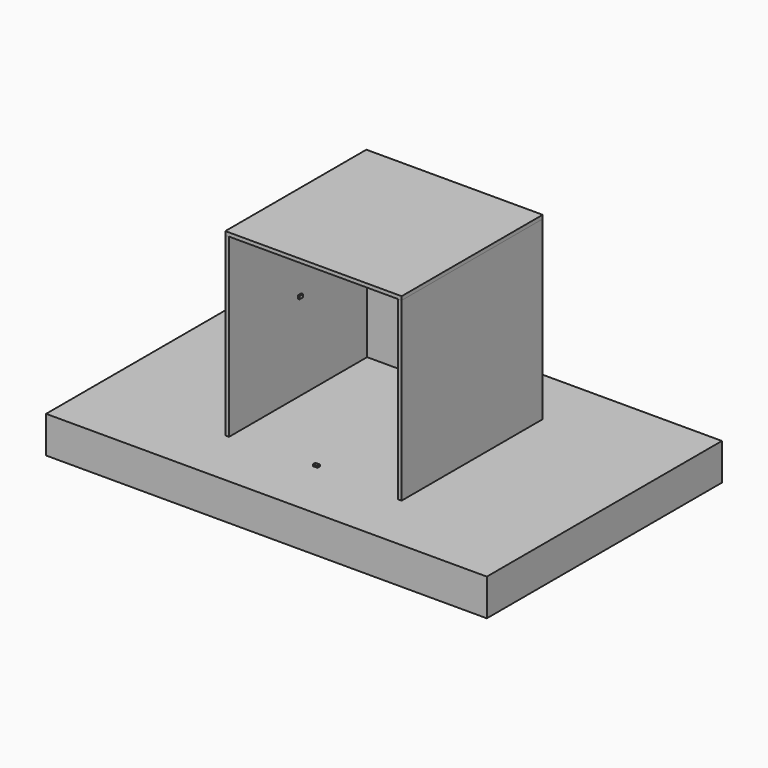
from build123d import *

# Parameters (mm, degrees)
F1_DEPTH  = 1200
F2_W      = 2400
F2_H      = 2400
F3_DEPTH  = 50
F4_W      = 6000
F4_H      = 4000
F5_DEPTH  = 500
F6_W      = 700
F6_H      = 200
F7_DEPTH  = 600
F8_W      = 60
F8_H      = 40
F9_DEPTH  = 25
F10_W     = 60
F10_H     = 40
F11_DEPTH = 25
F12_W     = 60
F12_H     = 40
F13_DEPTH = 25
F14_W     = 60
F14_H     = 40
F15_DEPTH = 25
F16_W     = 40
F16_H     = 60
F17_DEPTH = 25


with BuildPart() as f1:
    # F0 (on Top) → F1 (new body, symmetric)
    with BuildSketch(Plane.XY):
        Polygon((1150, -1200), (1200, -1200), (1200, 1200), (-1200, 1200), (-1200, -1200), (-1150, -1200), (-1150, -1150), (-1150, 1150), (1150, 1150), (1150, -1150), align=None)
    extrude(amount=F1_DEPTH, both=True)

    # F4 (on face) → F5 (join)
    with BuildSketch(Plane(origin=(0, 0, -1200), x_dir=(1, 0, 0), z_dir=(0, 0, -1))):
        Rectangle(F4_W, F4_H)
    extrude(amount=F5_DEPTH)


with BuildPart() as f3:
    # F2 (on face) → F3 (new body)
    with BuildSketch(Plane.XY.offset(1200)):
        Rectangle(F2_W, F2_H)
    extrude(amount=F3_DEPTH)


with BuildPart() as f7:
    # F6 (on face) → F7 (new body)
    with BuildSketch(Plane.XY.offset(-1200)):
        with Locations((0, 1000)):
            Rectangle(F6_W, F6_H)
    extrude(amount=F7_DEPTH)


with BuildPart() as f9:
    # F8 (on face) → F9 (new body)
    with BuildSketch(Plane.XY.offset(-1200)):
        with Locations((0, -1150)):
            Rectangle(F8_W, F8_H)
    extrude(amount=F9_DEPTH)


with BuildPart() as f11:
    # F10 (on face) → F11 (new body)
    with BuildSketch(Plane.XZ.offset(-1150)):
        with Locations((0, -520)):
            Rectangle(F10_W, F10_H)
    extrude(amount=F11_DEPTH)


with BuildPart() as f13:
    # F12 (on face) → F13 (new body)
    with BuildSketch(Plane(origin=(0, 0, 1200), x_dir=(1, 0, 0), z_dir=(0, 0, -1))):
        Rectangle(F12_W, F12_H)
    extrude(amount=F13_DEPTH)


with BuildPart() as f15:
    # F14 (on face) → F15 (new body)
    with BuildSketch(Plane.YZ.offset(-1150)):
        Rectangle(F14_W, F14_H)
    extrude(amount=F15_DEPTH)


with BuildPart() as f17:
    # F16 (on face) → F17 (new body)
    with BuildSketch(Plane.XY.offset(-1200)):
        with Locations((-1520, 30)):
            Rectangle(F16_W, F16_H)
    extrude(amount=F17_DEPTH)


solid = Compound([f1.part, f3.part, f7.part, f9.part, f11.part, f13.part, f15.part, f17.part])
